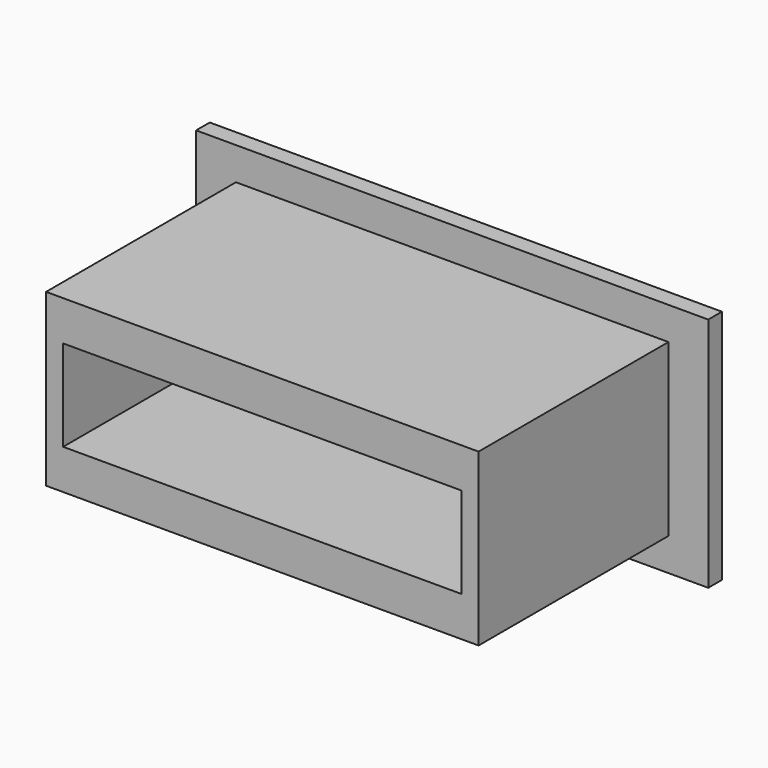
from build123d import *

# Parameters (mm, degrees)
F0_W     = 22.86
F0_H     = 10.541
F0_W_2   = 17.78
F0_H_2   = 4.064
F1_DEPTH = 0.762
F2_W     = 19.304
F2_H     = 7.62
F2_W_2   = 17.78
F2_H_2   = 4.064
F3_DEPTH = 10.5918


with BuildPart() as f1:
    # F0 (on Front) → F1 (new body)
    with BuildSketch(Plane.XZ):
        Rectangle(F0_W, F0_H)
        Rectangle(F0_W_2, F0_H_2, mode=Mode.SUBTRACT)
    extrude(amount=F1_DEPTH)

    # F2 (on face) → F3 (join)
    with BuildSketch(Plane.XZ.offset(0.762)):
        Rectangle(F2_W, F2_H)
        Rectangle(F2_W_2, F2_H_2, mode=Mode.SUBTRACT)
    extrude(amount=F3_DEPTH)


solid = f1.part
